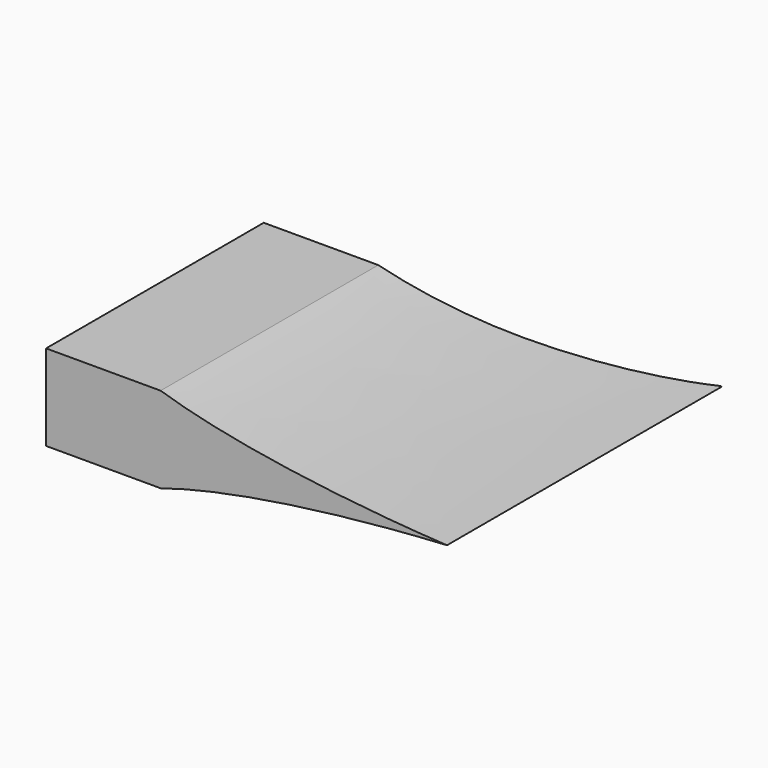
from build123d import *

# Parameters (mm, degrees)
F1_DEPTH = 76.2
F3_DEPTH = 19.0510001


with BuildPart() as f1:
    # F0 (on Front) → F1 (new body)
    with BuildSketch(Plane.XZ):
        with BuildLine():
            Line((0, 9.525), (0, 0))
            Line((0, 0), (0, -9.525))
            Line((0, -9.525), (25.4, -9.525))
            add(Edge.make_bspline(
                [(25.4, -9.525), (41.3905419409, -4.4218520634), (66.8163821101, -1.2436214602), (88.9, 0)],
                knots=[0, 0, 0, 0, 64.2104012213, 64.2104012213, 64.2104012213, 64.2104012213], degree=3))
            add(Edge.make_bspline(
                [(25.4, 9.525), (41.3905419409, 4.4218520634), (66.8163821101, 1.2436214602), (88.9, 0)],
                knots=[0, 0, 0, 0, 64.2104012213, 64.2104012213, 64.2104012213, 64.2104012213], degree=3))
            Line((25.4, 9.525), (0, 9.525))
        make_face()
    extrude(amount=F1_DEPTH)

    # F2 (on face) → F3 (cut, through all)
    with BuildSketch(Plane(origin=(0, 0, -9.525), x_dir=(1, 0, 0), z_dir=(0, 0, -1))):
        with BuildLine():
            Line((25.4, 15.875), (0, 15.875))
            Line((0, 15.875), (0, -11.2487031147))
            Line((0, -11.2487031147), (101.9945070148, -11.2487031147))
            add(Edge.make_bspline(
                [(25.4, 15.875), (34.8098984218, 15.1541309968), (54.5332356066, 13.6431750036), (89.3237261399, 1.9498237786), (98.3004466526, -7.4007828075), (101.9945070148, -11.2487031147)],
                knots=[0, 0, 0, 0, 0.3493516204, 0.7322480537, 1, 1, 1, 1], degree=3))
        make_face()
    extrude(amount=-F3_DEPTH, mode=Mode.SUBTRACT)


solid = f1.part
